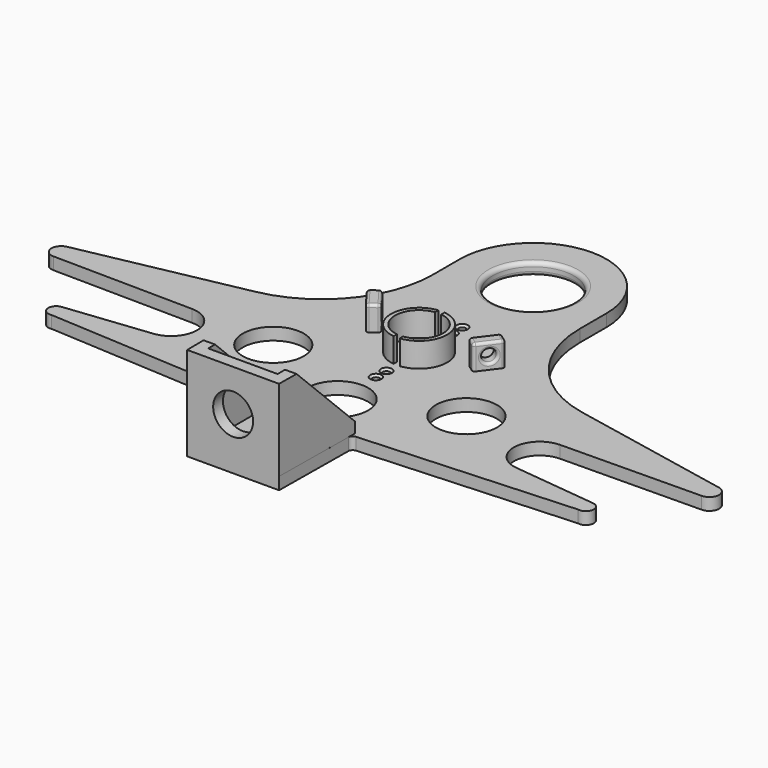
from build123d import *

# Parameters (mm, degrees)
SKETCH001_R     = 7.5
PAD_DEPTH       = 3
SKETCH_R        = 6.9
SKETCH_R_2      = 5.9
PAD001_DEPTH    = 6
SKETCH002_W     = 1.5
SKETCH002_H     = 15.96885
POCKET_DEPTH    = 6
SKETCH003_R     = 0.875
POCKET001_DEPTH = 3
PAD002_DEPTH    = 6
SKETCH006_R     = 1.5
POCKET002_DEPTH = 5
SKETCH007_R     = 1.5
POCKET003_DEPTH = 5
PAD003_DEPTH    = 20
POCKET004_DEPTH = 94.339409
SKETCH010_R     = 4.9
POCKET005_DEPTH = 5
FILLET_R        = 0.65
FILLET001_R     = 0.65
CHAMFER_SIZE    = 0.5
FILLET002_R     = 1


with BuildPart() as part:
    # Sketch001 → Pad (new body)
    with BuildSketch(Plane.XY):
        with BuildLine():
            ThreePointArc((0, 53), (-12.727922, 47.727922), (-18, 35))
            Line((-18, 35), (-18, 26.835686))
            ThreePointArc((-40, 0), (-24.202977, 9.485225), (-18, 26.835686))
            Line((-40, 0), (-80, -8))
            ThreePointArc((-80, -8), (-81.915074, -10.569597), (-79.56022, -12.743304))
            Line((-79.56022, -12.743304), (-45.14022, -13.173304))
            ThreePointArc((-44.537844, -25.836111), (-38.876715, -19.221077), (-45.14022, -13.173304))
            Line((-44.537844, -25.836111), (-65.197844, -28.126111))
            ThreePointArc((-65.197844, -28.126111), (-66.907515, -30.37858), (-64.57, -31.97))
            Line((-64.57, -31.97), (-12.5, -34.99))
            ThreePointArc((-11.49, -36.049102), (-11.78619, -35.320422), (-12.5, -34.99))
            Line((-11.49, -36.049102), (-11.27, -57.04))
            Line((-11.27, -57.04), (0, -57.04))
            Line((11.27, -57.04), (0, -57.04))
            Line((11.49, -36.049102), (11.27, -57.04))
            ThreePointArc((12.5, -34.99), (11.78619, -35.320422), (11.49, -36.049102))
            Line((64.57, -31.97), (12.5, -34.99))
            ThreePointArc((64.57, -31.97), (66.907515, -30.37858), (65.197844, -28.126111))
            Line((44.537844, -25.836111), (65.197844, -28.126111))
            ThreePointArc((45.14022, -13.173304), (38.876715, -19.221077), (44.537844, -25.836111))
            Line((79.56022, -12.743304), (45.14022, -13.173304))
            ThreePointArc((79.56022, -12.743304), (81.915074, -10.569597), (80, -8))
            Line((40, 0), (80, -8))
            ThreePointArc((18, 26.835686), (24.202977, 9.485225), (40, 0))
            Line((18, 35), (18, 26.835686))
            ThreePointArc((18, 35), (12.727922, 47.727922), (0, 53))
        make_face()
        with Locations((-23.7, -15.1)):
            Circle(SKETCH001_R, mode=Mode.SUBTRACT)
        with Locations((23.7, -15.1)):
            Circle(SKETCH001_R, mode=Mode.SUBTRACT)
        with BuildLine():
            ThreePointArc((0, 45), (-10, 35), (0, 25))
            ThreePointArc((0, 25), (10, 35), (0, 45))
        make_face(mode=Mode.SUBTRACT)
        with BuildLine():
            ThreePointArc((0, -17.5), (-7.5, -25), (0, -32.5))
            ThreePointArc((0, -32.5), (7.5, -25), (0, -17.5))
        make_face(mode=Mode.SUBTRACT)
    extrude(amount=PAD_DEPTH)

    # Sketch (on Face34 of Pad) → Pad001 (join)
    with BuildSketch(Plane.XY.offset(3)):
        Circle(SKETCH_R)
        Circle(SKETCH_R_2, mode=Mode.SUBTRACT)
    extrude(amount=PAD001_DEPTH)

    # Sketch002 (on Face36 of Pad001) → Pocket (cut)
    with BuildSketch(Plane.XY.offset(9)):
        Rectangle(SKETCH002_W, SKETCH002_H)
    extrude(amount=-POCKET_DEPTH, mode=Mode.SUBTRACT)

    # Sketch003 (on Face5 of Pocket) → Pocket001 (cut)
    with BuildSketch(Plane.XY.offset(3)):
        with Locations((0, 10)):
            Circle(SKETCH003_R)
        with Locations((0, 13.25)):
            Circle(SKETCH003_R)
        with Locations((0, -10)):
            Circle(SKETCH003_R)
        with Locations((0, -13.25)):
            Circle(SKETCH003_R)
    extrude(amount=-POCKET001_DEPTH, mode=Mode.SUBTRACT)

    # Sketch005 → Pad002 (join)
    with BuildSketch(Plane.XY.offset(3)):
        Polygon((-13.11, 0), (-17.01, 5.2), (-14.61, 7), (-10.71, 1.8), align=None)
        Polygon((13.11, 0), (17.01, 5.2), (14.61, 7), (10.71, 1.8), align=None)
    extrude(amount=PAD002_DEPTH)

    # Sketch006 (on Face48 of Pad002) → Pocket002 (cut)
    with BuildSketch(Plane(origin=(8.3904, -6.2928, 0), x_dir=(0.6, 0.8, 0), z_dir=(0.8, -0.6, 0))):
        with Locations((11.21, 5.93)):
            Circle(SKETCH006_R)
    extrude(amount=-POCKET002_DEPTH, mode=Mode.SUBTRACT)

    # Sketch007 (on Face42 of Pocket002) → Pocket003 (cut)
    with BuildSketch(Plane(origin=(-8.3904, -6.2928, 0), x_dir=(0.6, -0.8, 0), z_dir=(-0.8, -0.6, 0))):
        with Locations((-11.21, 5.93)):
            Circle(SKETCH007_R)
    extrude(amount=-POCKET003_DEPTH, mode=Mode.SUBTRACT)

    # Sketch008 (on Face5 of Pocket003) → Pad003 (join)
    with BuildSketch(Plane.XY.offset(3)):
        Polygon((-11.27, -57.04), (11.27, -57.04), (11.51, -34.04), (8.51, -34.04), (8.51, -54.04), (-8.51, -54.04), (-8.51, -34.04), (-11.51, -34.04), align=None)
    extrude(amount=PAD003_DEPTH)

    # Sketch009 (on Face45 of Pad003) → Pocket004 (cut, through all)
    with BuildSketch(Plane(origin=(-11.863908, -0.123797, 0), x_dir=(0.010434, -0.999946, 0), z_dir=(-0.999946, -0.010434, 0))):
        Polygon((33.76, 5.21), (33.76, 23.21), (52.07, 23.21), align=None)
    extrude(amount=-POCKET004_DEPTH, mode=Mode.SUBTRACT)

    # Sketch010 (on Face42 of Pocket004) → Pocket005 (cut)
    with BuildSketch(Plane(origin=(0, -54.04, 0), x_dir=(-1, 0, 0), z_dir=(0, 1, 0))):
        with Locations((0, 12.78)):
            Circle(SKETCH010_R)
    extrude(amount=-POCKET005_DEPTH, mode=Mode.SUBTRACT)

    # Fillet
    fillet_edges = [part.edges().sort_by_distance(p)[0] for p in [
        (14.2164, 1.4752, 5.93),
        (-13.6164, 5.6752, 5.93),
        (11.8164, 3.2752, 5.93),
        (-16.0164, 3.8752, 5.93),
    ]]
    fillet(fillet_edges, radius=FILLET_R)

    # Fillet001
    fillet001_edges = [part.edges().sort_by_distance(p)[0] for p in [
        (14.61, 7, 6),
        (12.66, 4.4, 9),
        (10.71, 1.8, 6),
        (11.91, 0.9, 9),
        (15.81, 6.1, 9),
        (-14.61, 7, 6),
        (-17.01, 5.2, 6),
        (-15.81, 6.1, 9),
        (-15.06, 2.6, 9),
        (-12.66, 4.4, 9),
        (-11.91, 0.9, 9),
        (-13.11, 0, 6),
        (15.06, 2.6, 9),
        (13.11, 0, 6),
        (-10.71, 1.8, 6),
        (17.01, 5.2, 6),
    ]]
    fillet(fillet001_edges, radius=FILLET001_R)

    # Chamfer
    chamfer_edges = [part.edges().sort_by_distance(p)[0] for p in [
        (-0.875, 13.25, 3),
        (-0.875, 10, 3),
        (-0.875, -10, 3),
        (-0.875, -13.25, 3),
        (-0.875, -13.25, 0),
        (-0.875, -10, 0),
        (-0.875, 10, 0),
        (-0.875, 13.25, 0),
    ]]
    chamfer(chamfer_edges, length=CHAMFER_SIZE)

    # Fillet002
    fillet002_edges = [part.edges().sort_by_distance(p)[0] for p in [
        (-10, 35, 3),
        (10, 35, 3),
        (-10, 35, 0),
        (10, 35, 0),
    ]]
    fillet(fillet002_edges, radius=FILLET002_R)


solid = part.part
